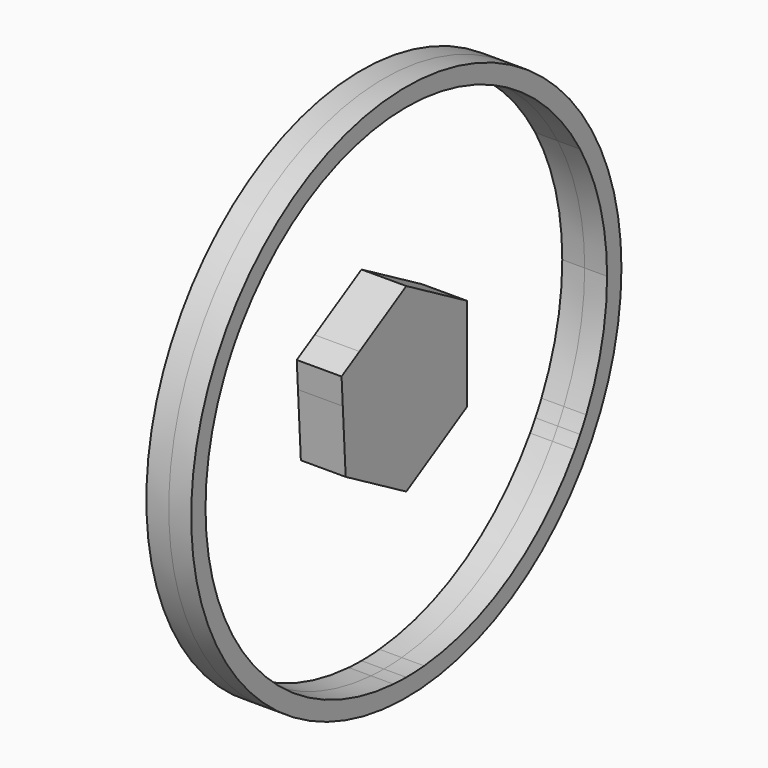
from build123d import *

# Parameters (mm, degrees)
F0_R     = 38.1
F1_DEPTH = 3.175


with BuildPart() as f1:
    # F0 (on Right) → F1 (new body, symmetric)
    with BuildSketch(Plane.YZ):
        Circle(F0_R)
        with BuildLine():
            ThreePointArc((0, 35.56), (17.78, 30.795863), (30.795863, 17.78))
            ThreePointArc((30.795863, 17.78), (34.348322, 9.203605), (35.56, 0))
            ThreePointArc((35.56, 0), (34.624919, -8.101149), (31.868852, -15.776244))
            ThreePointArc((31.868852, -15.776244), (31.348372, -16.786697), (30.795863, -17.78))
            ThreePointArc((30.795863, -17.78), (30.338519, -18.549605), (29.861946, -19.307454))
            ThreePointArc((29.861946, -19.307454), (18.376539, -30.44366), (3.171835, -35.418259))
            ThreePointArc((3.171835, -35.418259), (1.5875, -35.524547), (0, -35.56))
            ThreePointArc((0, -35.56), (-1.131652, -35.541989), (-2.262159, -35.487973))
            ThreePointArc((-2.262159, -35.487973), (-18.751034, -30.214439), (-30.795863, -17.78))
            ThreePointArc((-30.795863, -17.78), (-35.524547, -1.5875), (-32.259029, 14.96224))
            ThreePointArc((-32.259029, 14.96224), (-31.55891, 16.387458), (-30.795863, 17.78))
            ThreePointArc((-30.795863, 17.78), (-29.97141, 19.137089), (-29.087195, 20.456019))
            ThreePointArc((-29.087195, 20.456019), (-16.387458, 31.55891), (0, 35.56))
        make_face(mode=Mode.SUBTRACT)
        Polygon((-6.096, -3.519527), (-6.096, 3.519527), (-11.464764, 6.619185), (-11.249941, 2.832637), (-10.737529, -6.199315), align=None)
        Polygon((-6.096, 3.519527), (0, 7.039054), (0, 13.238369), (-8.29293, 8.450444), (-11.464764, 6.619185), align=None)
        Polygon((0, 7.039054), (6.096, 3.519527), (10.737529, 6.199315), (10.737529, 7.039054), (0, 13.238369), align=None)
        Polygon((10.737529, 6.199315), (6.096, 3.519527), (6.096, -3.519527), (10.737529, -6.199315), (10.737529, -3.576068), align=None)
        Polygon((10.737529, -6.199315), (6.096, -3.519527), (0, -7.039054), (0, -12.39863), (3.171835, -10.56737), (8.947756, -7.232641), align=None)
        Polygon((0, -12.39863), (0, -7.039054), (-6.096, -3.519527), (-10.737529, -6.199315), (-2.262159, -11.092572), align=None)
        Polygon((6.096, -3.519527), (6.096, 3.519527), (0, 7.039054), (-6.096, 3.519527), (-6.096, -3.519527), (0, -7.039054), align=None)
    extrude(amount=F1_DEPTH, both=True)


solid = f1.part
